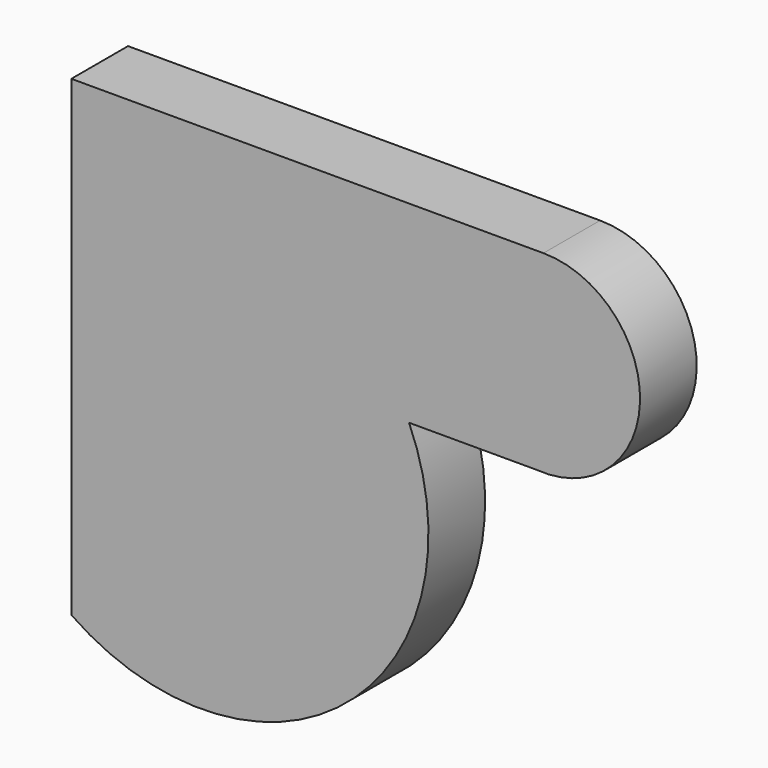
from build123d import *

# Parameters (mm, degrees)
F1_DEPTH = 38.1
F3_R     = 5.08
F4_DEPTH = 63.5


with BuildPart() as f1:
    # F0 (on Front) → F1 (new body)
    with BuildSketch(Plane.XZ):
        with BuildLine():
            Line((0, 103.827015), (0, -150.172985))
            ThreePointArc((0, -150.172985), (147.702772, -143.875268), (181.698026, 0))
            Line((181.698026, 0), (250.278026, 0))
            ThreePointArc((250.278026, 0), (305.946853, 49.984613), (254, 103.827015))
            Line((254, 103.827015), (0, 103.827015))
        make_face()
    extrude(amount=F1_DEPTH)

    # F3 (on face) → F4 (cut)
    with BuildSketch(Plane(origin=(0, 0, 0), x_dir=(0, -1, 0), z_dir=(-1, 0, 0))):
        with Locations((19.05, 93.667015)):
            Circle(F3_R)
        with Locations((7.62, 65.727015)):
            Circle(F3_R)
        with Locations((19.05, 40.231943)):
            Circle(F3_R)
    extrude(amount=-F4_DEPTH, mode=Mode.SUBTRACT)


solid = f1.part
